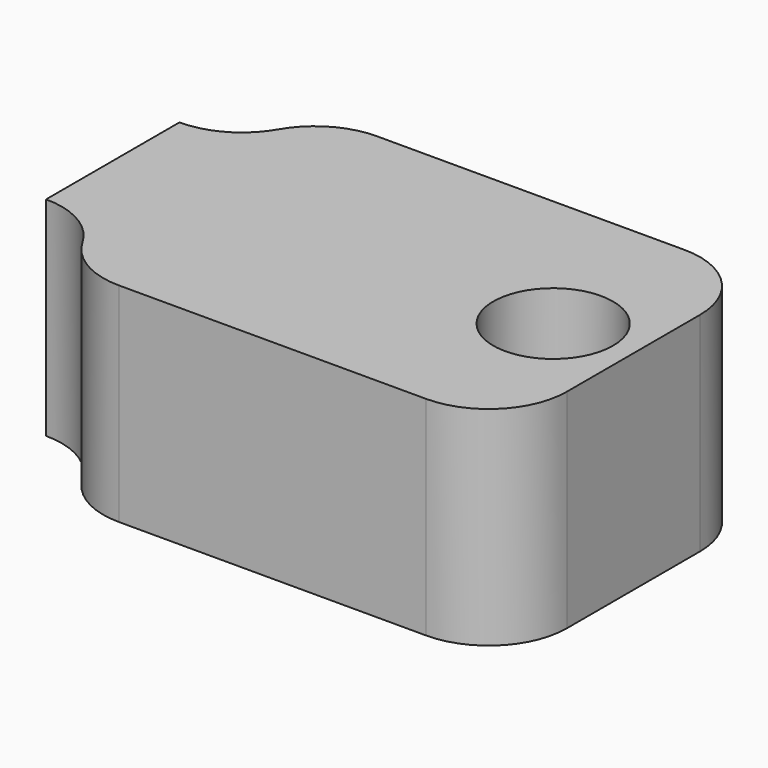
from build123d import *

# Parameters (mm, degrees)
F0_R     = 1.15
F1_DEPTH = 4
F2_R     = 1.5
F3_R     = 1.5
F4_DEPTH = 4


with BuildPart() as f1:
    # F0 (on Top) → F1 (new body)
    with BuildSketch(Plane.XY):
        with BuildLine():
            Line((3.5, 3.1), (-3.5, 3.1))
            ThreePointArc((-3.5, 3.1), (-3.93934, 2.03934), (-5, 1.6))
            Line((-5, 1.6), (-5, -1.6))
            ThreePointArc((-5, -1.6), (-3.93934, -2.03934), (-3.5, -3.1))
            Line((-3.5, -3.1), (3.5, -3.1))
            ThreePointArc((3.5, -3.1), (4.56066, -2.66066), (5, -1.6))
            Line((5, -1.6), (5, 1.6))
            ThreePointArc((5, 1.6), (4.56066, 2.66066), (3.5, 3.1))
        make_face()
        with Locations((3.457711, 0)):
            Circle(F0_R, mode=Mode.SUBTRACT)
    extrude(amount=F1_DEPTH)

    # F2
    f2_edges = [f1.edges().sort_by_distance(p)[0] for p in [
        (-3.5, -3.1, 2),
        (-3.5, 3.1, 2),
    ]]
    fillet(f2_edges, radius=F2_R)

    # F3 (on face) → F4 (cut)
    with BuildSketch(Plane(origin=(-5, 0, 0), x_dir=(0, -1, 0), z_dir=(-1, 0, 0))):
        with Locations((0, 2)):
            Circle(F3_R)
    extrude(amount=-F4_DEPTH, mode=Mode.SUBTRACT)


solid = f1.part
